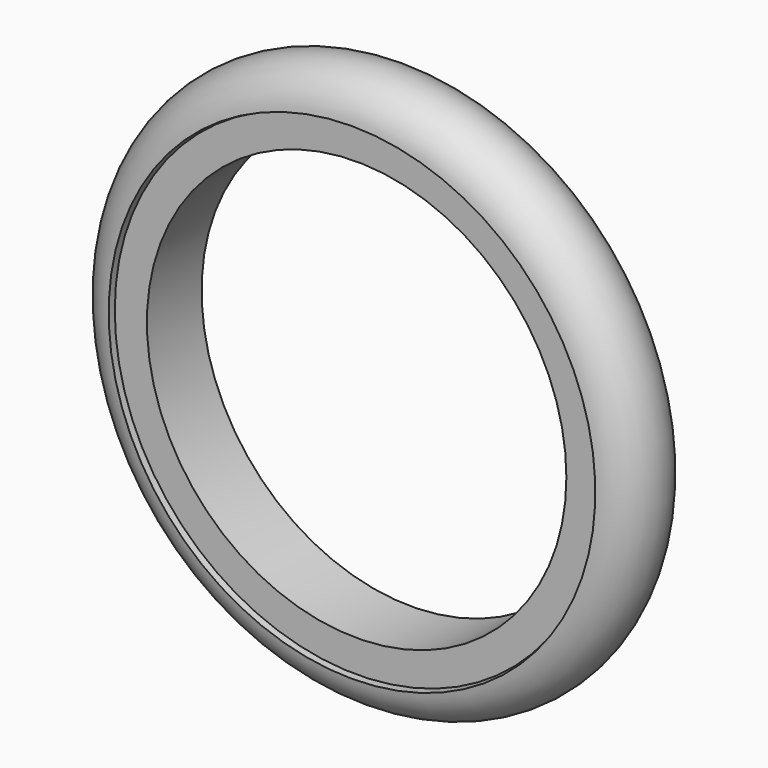
from build123d import *

# Parameters (mm, degrees)
F0_R     = 58.419928
F0_R_2   = 50.653175
F4_DEPTH = 8.255


with BuildPart() as f3:
    # F1 (on Right) → F3 (revolve)
    with BuildSketch(Plane.YZ):
        with BuildLine():
            Line((-9.656509, 58.766587), (9.687974, 58.134703))
            ThreePointArc((9.687974, 58.134703), (0.316333, 67.653236), (-9.656509, 58.766587))
        make_face()
    revolve(axis=Axis((0, -0.11386, 0), (0, -1, 0)))

    # F0 (on Front) → F4 (join, symmetric)
    with BuildSketch(Plane.XZ):
        Circle(F0_R)
        Circle(F0_R_2, mode=Mode.SUBTRACT)
    extrude(amount=F4_DEPTH, both=True)


solid = f3.part
